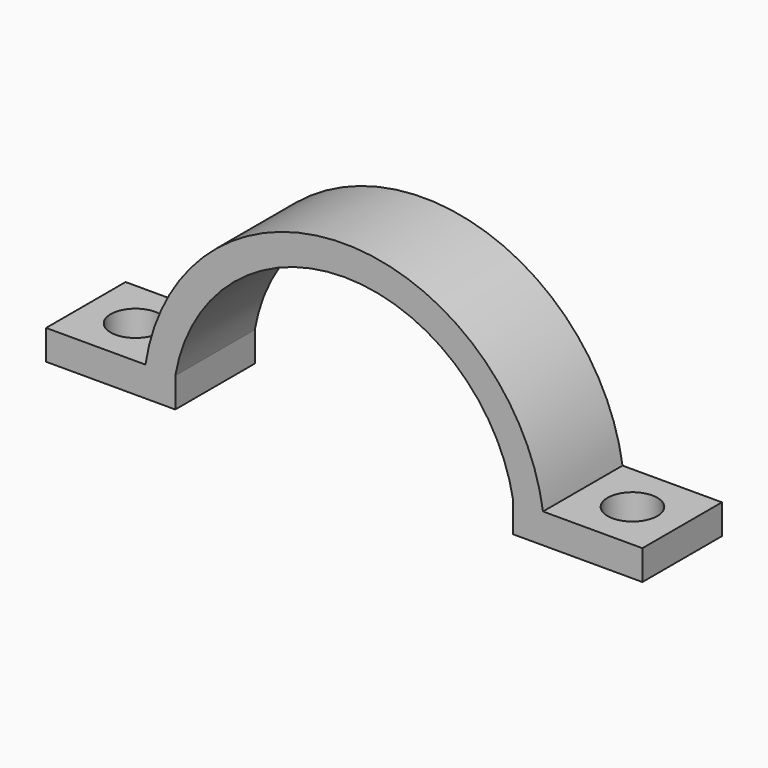
from build123d import *

# Parameters (mm, degrees)
PAD_DEPTH    = 10
SKETCH001_R  = 2.5
POCKET_DEPTH = 3


with BuildPart() as part:
    # Sketch → Pad (new body)
    with BuildSketch(Plane.XZ):
        with BuildLine():
            Line((-30, 0), (-17, 0))
            Line((-17, 3), (-17, 0))
            ThreePointArc((17, 3), (0, 17.262677), (-17, 3))
            Line((17, 3), (17, 0))
            Line((17, 0), (30, 0))
            Line((30, 0), (30, 3))
            Line((30, 3), (20, 3))
            ThreePointArc((20, 3), (0, 20.223748), (-20, 3))
            Line((-30, 3), (-20, 3))
            Line((-30, 0), (-30, 3))
        make_face()
    extrude(amount=PAD_DEPTH)

    # Sketch001 (on Face8 of Pad) → Pocket (cut)
    with BuildSketch(Plane(origin=(0, 0, 3), x_dir=(-1, 0, 0), z_dir=(0, 0, 1))):
        with Locations((25, 5)):
            Circle(SKETCH001_R)
        with Locations((-25, 5)):
            Circle(SKETCH001_R)
    extrude(amount=-POCKET_DEPTH, mode=Mode.SUBTRACT)


solid = part.part
